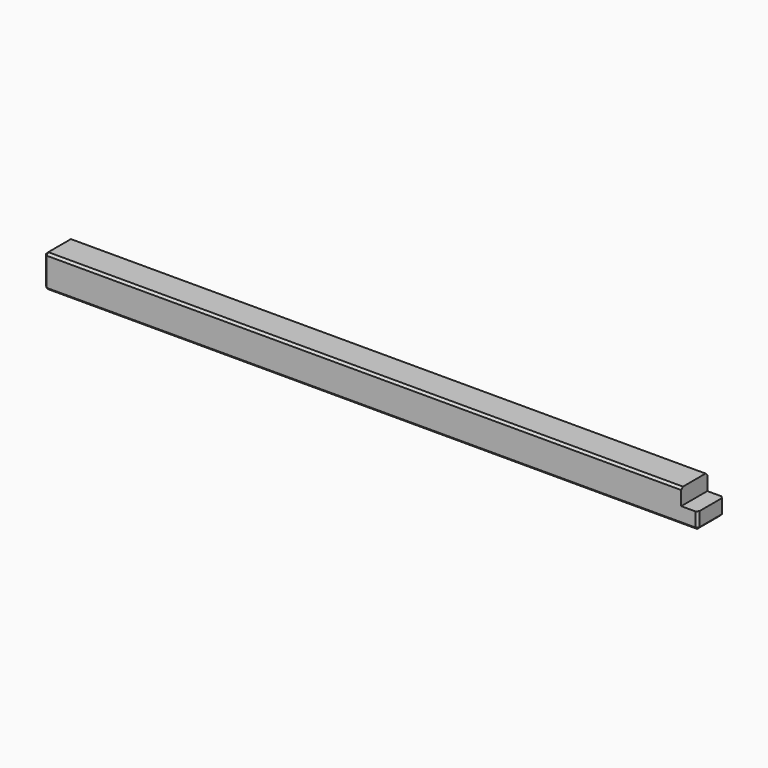
from build123d import *

# Parameters (mm, degrees)
F0_W     = 3000
F0_H     = 150
F1_DEPTH = 150
F2_SIZE  = 10
F3_W     = 65
F3_H     = 65
F4_DEPTH = 150.001


with BuildPart() as f1:
    # F0 (on Top) → F1 (new body)
    with BuildSketch(Plane.XY):
        Rectangle(F0_W, F0_H)
    extrude(amount=F1_DEPTH)

    # F2
    f2_edges = [f1.edges().sort_by_distance(p)[0] for p in [
        (-1500, 0, 150),
        (0, -75, 150),
        (1500, 0, 150),
        (0, 75, 150),
        (-1500, -75, 75),
        (1500, -75, 75),
        (0, -75, 0),
        (-1500, 0, 0),
        (1500, 0, 0),
        (0, 75, 0),
        (1500, 75, 75),
        (-1500, 75, 75),
    ]]
    chamfer(f2_edges, length=F2_SIZE)

    # F3 (on face) → F4 (cut, through all)
    with BuildSketch(Plane.XZ.offset(75)):
        with Locations((1457.5, 107.5)):
            Rectangle(F3_W, F3_H)
        Polygon((1490, 140), (1490, 75), (1500, 75), (1500, 150), (1425, 150), (1425, 140), align=None)
    extrude(amount=-F4_DEPTH, mode=Mode.SUBTRACT)


solid = f1.part
